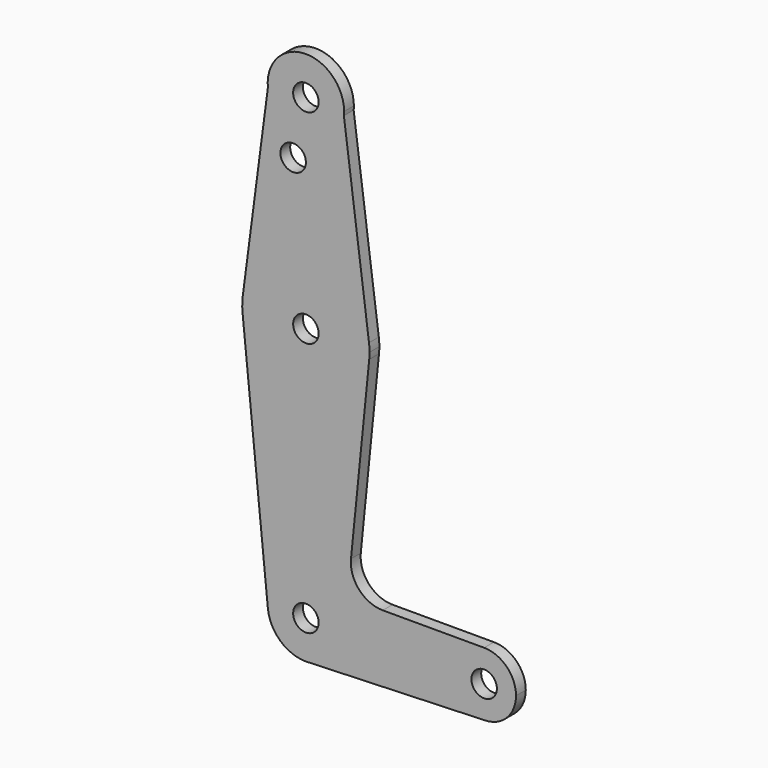
from build123d import *

# Parameters (mm, degrees)
F0_R     = 3.175
F1_DEPTH = 3.048


with BuildPart() as f1:
    # F0 (on Front) → F1 (new body)
    with BuildSketch(Plane.XZ):
        with BuildLine():
            ThreePointArc((0.677344, -9.500886), (6.970557, -6.491299), (9.525, 0))
            ThreePointArc((9.525, 0), (-0.476848, 9.513056), (-9.477255, -0.9525))
            ThreePointArc((-9.477255, -0.9525), (-6.389564, -7.063929), (0, -9.525))
            Line((0, -9.525), (0.677344, -9.500886))
        make_face()
        Circle(F0_R, mode=Mode.SUBTRACT)
        with BuildLine():
            ThreePointArc((-9.477255, -0.9525), (-0.476848, 9.513056), (9.525, 0))
            ThreePointArc((9.525, 0), (6.970557, -6.491299), (0.677344, -9.500886))
            Line((0.677344, -9.500886), (44.732405, -7.932475))
            ThreePointArc((44.732405, -7.932475), (36.513756, -0.141225), (44.45, 7.9375))
            Line((44.45, 7.9375), (19.160011, 7.9375))
            ThreePointArc((19.160011, 7.9375), (13.263985, 10.554544), (11.249662, 16.68272))
            Line((11.249662, 16.68272), (15.795426, 61.9125))
            ThreePointArc((15.795426, 61.9125), (0, 47.625), (-15.795426, 61.9125))
            Line((-15.795426, 61.9125), (-9.477255, -0.9525))
        make_face()
        with BuildLine():
            ThreePointArc((0, -9.525), (0.338886, -9.51897), (0.677344, -9.500886))
            Line((0.677344, -9.500886), (0, -9.525))
        make_face()
        with BuildLine():
            ThreePointArc((-15.740371, 65.563095), (-15.873195, 63.739385), (-15.795426, 61.9125))
            ThreePointArc((-15.795426, 61.9125), (0, 47.625), (15.795426, 61.9125))
            ThreePointArc((15.795426, 61.9125), (15.855094, 62.705253), (15.875, 63.5))
            ThreePointArc((15.875, 63.5), (15.841307, 64.533741), (15.740371, 65.563095))
            ThreePointArc((15.740371, 65.563095), (0, 79.375), (-15.740371, 65.563095))
        make_face()
        with Locations((0, 63.5)):
            Circle(F0_R, mode=Mode.SUBTRACT)
        with BuildLine():
            ThreePointArc((44.45, 7.9375), (36.513756, -0.141225), (44.732405, -7.932475))
            ThreePointArc((44.732405, -7.932475), (50.161633, -5.51191), (52.3875, 0))
            ThreePointArc((52.3875, 0), (50.06266, 5.61266), (44.45, 7.9375))
        make_face()
        with Locations((44.45, 0)):
            Circle(F0_R, mode=Mode.SUBTRACT)
        with BuildLine():
            Line((-9.477255, 113.3475), (-15.740371, 65.563095))
            ThreePointArc((-15.740371, 65.563095), (0, 79.375), (15.740371, 65.563095))
            Line((15.740371, 65.563095), (9.477255, 113.3475))
            ThreePointArc((9.477255, 113.3475), (0, 104.775), (-9.477255, 113.3475))
        make_face()
        with Locations((-3.175, 100.0252)):
            Circle(F0_R, mode=Mode.SUBTRACT)
        with BuildLine():
            ThreePointArc((9.525, 114.3), (-0.476848, 123.813056), (-9.477255, 113.3475))
            ThreePointArc((-9.477255, 113.3475), (0, 104.775), (9.477255, 113.3475))
            ThreePointArc((9.477255, 113.3475), (9.513056, 113.823152), (9.525, 114.3))
        make_face()
        with Locations((0, 114.3)):
            Circle(F0_R, mode=Mode.SUBTRACT)
    extrude(amount=F1_DEPTH)


solid = f1.part
